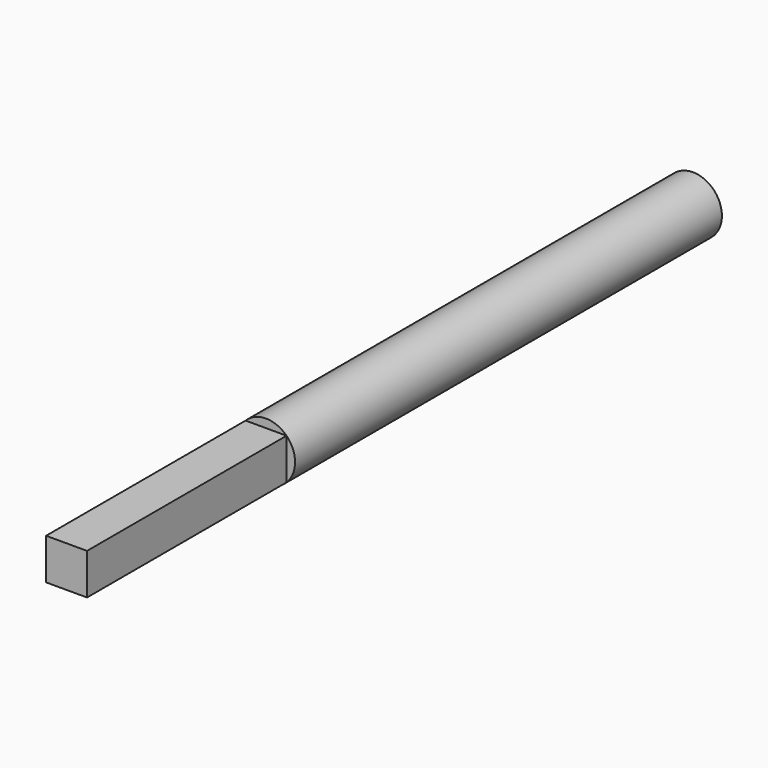
from build123d import *

# Parameters (mm, degrees)
SKETCH015_R     = 5
PAD004_DEPTH    = 135
POCKET012_DEPTH = 43
POCKET013_DEPTH = 43


with BuildPart() as part:
    # Sketch015 → Pad004 (new body)
    with BuildSketch(Plane.XZ):
        Circle(SKETCH015_R)
    extrude(amount=PAD004_DEPTH)

    # Sketch026 (on Face3 of Pad004) → Pocket012 (cut)
    with BuildSketch(Plane.XZ.offset(135)):
        Polygon((3.531062, -3.54), (3.531062, 3.54), (-3.531062, 3.54), (-3.87, 6.02), (6.78, 6.02), (6.88, -3.72), align=None)
    extrude(amount=-POCKET012_DEPTH, mode=Mode.SUBTRACT)

    # Sketch027 (on Face5 of Pocket012) → Pocket013 (cut)
    with BuildSketch(Plane.XZ.offset(135)):
        Polygon((-3.531062, 3.54), (-3.531062, -3.54), (3.531062, -3.54), (3.531062, -6.25), (-6.79, -6.25), (-6.79, 3.54), align=None)
    extrude(amount=-POCKET013_DEPTH, mode=Mode.SUBTRACT)


with BuildPart() as part_1:
    # Body005 placement: moved
    add(part.part.moved(Location((0, 23, 0))))


solid = part_1.part
